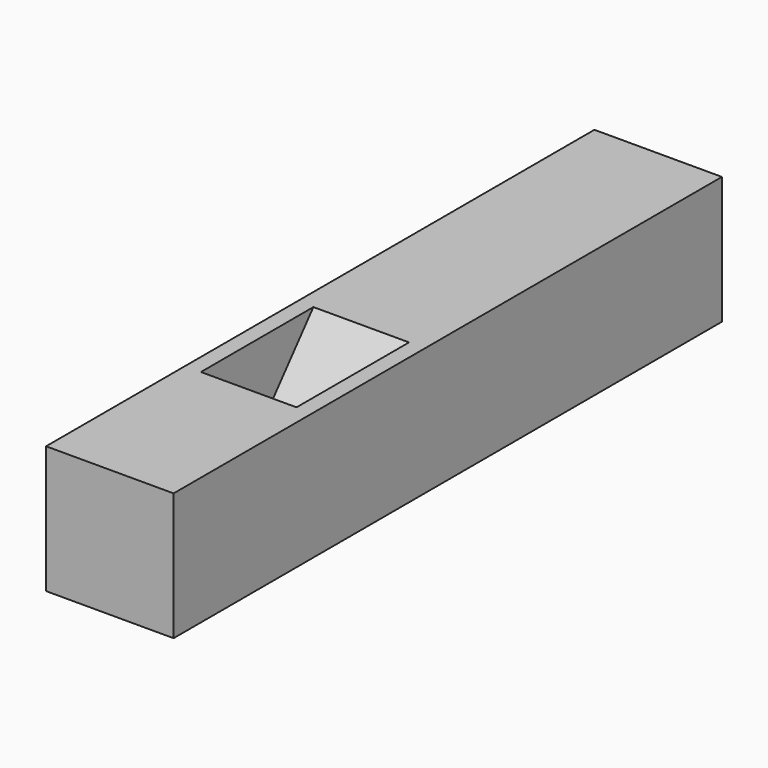
from build123d import *

# Parameters (mm, degrees)
F0_W     = 430
F0_H     = 80
F1_DEPTH = 40
F2_W     = 7
F2_H     = 17.641502
F3_DEPTH = 30


with BuildPart() as f1:
    # F0 (on Right) → F1 (new body, symmetric)
    with BuildSketch(Plane.YZ):
        Rectangle(F0_W, F0_H)
    extrude(amount=F1_DEPTH, both=True)

    # F2 (on Right) → F3 (cut, symmetric)
    with BuildSketch(Plane.YZ):
        with Locations((-88.5, -48.820751)):
            Rectangle(F2_W, F2_H)
        Polygon((-92, -40), (-85, -40), (-17.87203, 40), (-17.87203, 50), (-106.093367, 50), (-106.093367, 40), (-87.336923, -30), align=None)
    extrude(amount=F3_DEPTH, both=True, mode=Mode.SUBTRACT)


solid = f1.part
